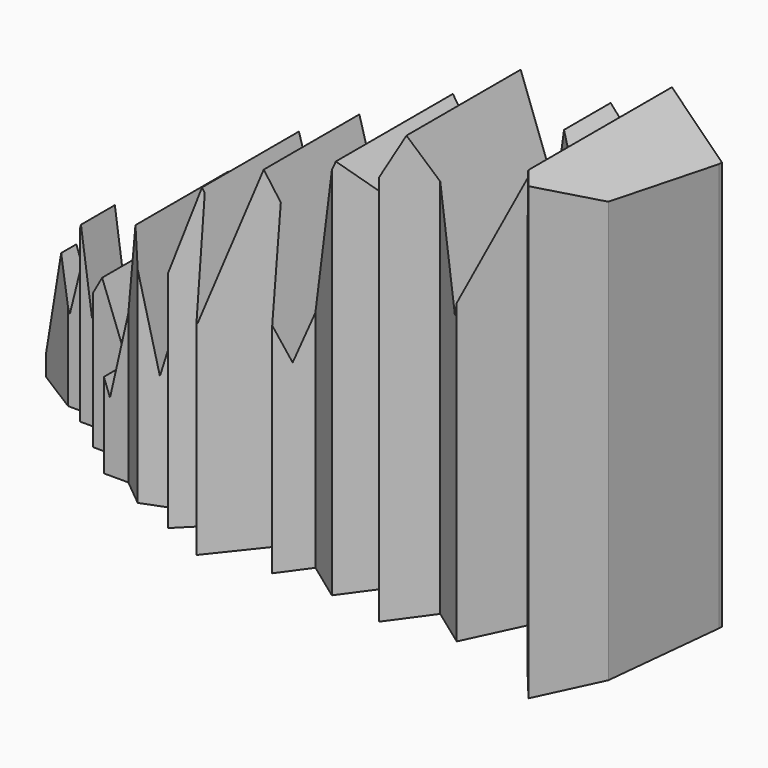
from build123d import *

# Parameters (mm, degrees)
F2_DEPTH = 188.468
F3_DEPTH = 66.595839


with BuildPart() as f2:
    # F1 (on Top) → F2 (new body)
    with BuildSketch(Plane.XY):
        Polygon((238.254488, 0), (0, 0), (15.567613, -9.763042), (23.834057, -9.763042), (23.834057, -14.92957), (36.233719, -14.92957), (36.233719, -24.573755), (48.288953, -24.573755), (48.288953, -34.906808), (56.899831, -34.906808), (66.544011, -42.828817), (75.499326, -39.384466), (82.388029, -49.373083), (89.621171, -42.139944), (98.576479, -56.950655), (113.38719, -38.35116), (121.653639, -52.473001), (128.886774, -42.48438), (142.680591, -52.473001), (155.400931, -34.906808), (162.641421, -56.606222), (172.867577, -42.48438), (186.661394, -52.473001), (196.396053, -31.806894), (196.396053, -18.718356), (204.482083, -24.573755), (210.173458, -42.48438), (214.995548, -56.606222), (223.261997, -66.594839), (233.683616, -44.470357), align=None)
    extrude(amount=F2_DEPTH)

    # F0 (on Front) → F3 (intersect, through all)
    with BuildSketch(Plane.XZ):
        Polygon((10.664172, 44.642482), (0, 7.384356), (0, 0), (238.133401, 0), (238.133401, 143.988803), (220.514372, 161.607817), (212.585822, 134.434521), (198.931083, 149.714991), (185.276344, 99.941269), (167.216852, 149.714991), (154.719889, 117.364436), (143.336907, 134.434521), (125.075892, 64.566277), (110.387675, 117.364436), (98.749742, 71.781114), (89.090228, 105.129436), (72.531059, 40.272702), (64.251475, 84.66047), (50.452169, 24.173511), (39.412726, 53.612031), (28.14329, 33.37305), (24.23349, 61.201647), (16.183894, 28.77328), align=None)
    extrude(amount=F3_DEPTH, mode=Mode.INTERSECT)


solid = f2.part
